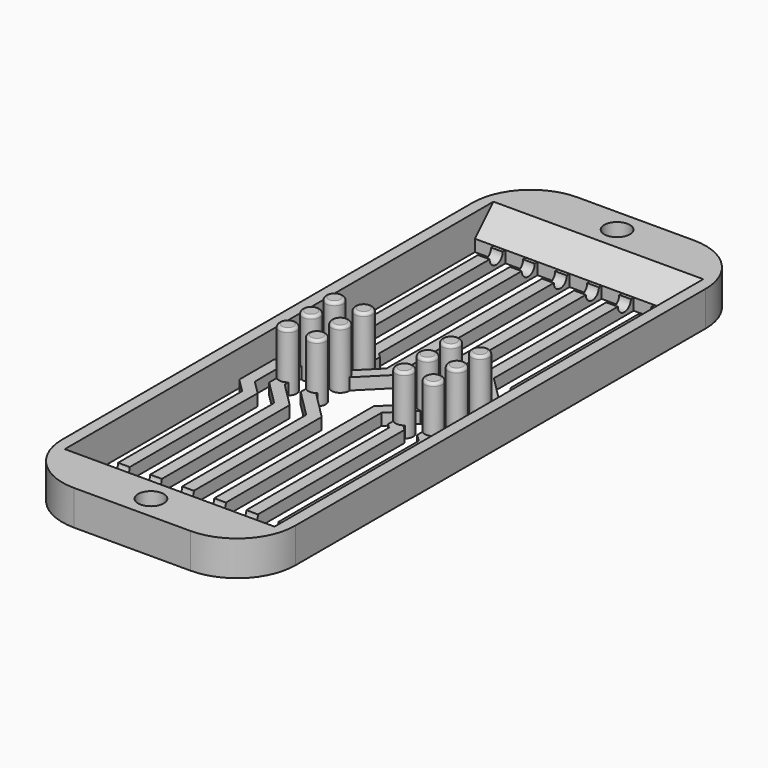
from build123d import *

# Parameters (mm, degrees)
CYLINDER_R              = 0.7
CYLINDER_DEPTH          = 16
CYLINDER_PITCH_ANGLE    = 90
CYLINDER001_R           = 0.7
CYLINDER001_DEPTH       = 16
CYLINDER001_PITCH_ANGLE = 90
PAD003_DEPTH            = 1
PAD_DEPTH               = 1
SKETCH001_R             = 0.75
PAD001_DEPTH            = 5
FILLET_R                = 0.25
SKETCH002_W             = 20
SKETCH002_H             = 54
SKETCH002_R             = 1.1
SKETCH002_W_2           = 18
SKETCH002_H_2           = 42
PAD002_DEPTH            = 3
FILLET001_R             = 5
CHAMFER_SIZE            = 1.99


with BuildPart() as zylinder:
    # Cylinder → Cylinder (new body)
    with BuildSketch(Plane.XY):
        Circle(CYLINDER_R)
    extrude(amount=CYLINDER_DEPTH)


with BuildPart() as zylinder_1:
    # Cylinder pitch: moved
    add(zylinder.part.rotate(Axis((0, 0, 0), (0, 1, 0)), CYLINDER_PITCH_ANGLE))


with BuildPart() as zylinder_2:
    # Cylinder placement: moved
    add(zylinder_1.part.moved(Location((2, 47, 1))))


with BuildPart() as fusion001:
    # Cylinder001 → Cylinder001 (new body)
    with BuildSketch(Plane.XY):
        Circle(CYLINDER001_R)
    extrude(amount=CYLINDER001_DEPTH)


with BuildPart() as fusion001_1:
    # Cylinder001 pitch: moved
    add(fusion001.part.rotate(Axis((0, 0, 0), (0, 1, 0)), CYLINDER001_PITCH_ANGLE))


with BuildPart() as fusion001_2:
    # Cylinder001 placement: moved
    add(fusion001_1.part.moved(Location((2, 7, 1))))

    # Fusion001: union Zylinder
    add(zylinder_2.part)


with BuildPart() as pin2:
    # Sketch003 → Pad003 (new body)
    with BuildSketch(Plane(origin=(20, 54, 0), x_dir=(-1, 0, 0), z_dir=(0, 0, 1))):
        Polygon((2.625001, 6), (2.625001, 21.000001), (1.425002, 22.2), (1.425002, 25.945946), (3.425366, 27.346616), (4.151055, 26.740327), (2.425002, 25.531732), (2.425002, 22.614216), (3.625001, 21.414216), (3.625001, 6), align=None)
        Polygon((5.375002, 6), (5.375002, 21.000005), (3.25, 23.125007), (3.25, 24.5), (4.25, 24.5), (4.25, 23.539221), (6.375002, 21.414217), (6.375002, 6), align=None)
        Polygon((8.125003, 6), (8.125003, 21.000004), (5.749999, 23.375009), (5.749999, 24.5), (6.749998, 24.5), (6.749998, 23.789246), (9.125004, 21.414218), (9.125004, 6), align=None)
        Polygon((10.875003, 6), (10.875003, 24.800032), (13.474746, 27.399769), (14.178822, 26.689644), (11.875002, 24.385819), (11.875002, 6), align=None)
        Polygon((16.375001, 6), (16.375001, 22.750033), (15.75, 23.375034), (15.75, 24.499993), (16.75, 24.499993), (16.75, 23.789248), (17.375001, 23.164247), (17.375001, 6), align=None)
        Polygon((13.625002, 6), (14.625002, 6), (14.625002, 23.414246), (14.250001, 23.789247), (14.250001, 24.499996), (13.25, 24.499996), (13.25, 23.375034), (13.625002, 23.000032), align=None)
    extrude(amount=PAD003_DEPTH)


with BuildPart() as cut:
    # Sketch → Pad (new body)
    with BuildSketch(Plane.XY):
        Polygon((2.625001, 6), (2.625001, 21.000001), (1.425002, 22.2), (1.425002, 25.945946), (3.425366, 27.346616), (4.151055, 26.740327), (2.425002, 25.531732), (2.425002, 22.614216), (3.625001, 21.414216), (3.625001, 6), align=None)
        Polygon((5.375002, 6), (5.375002, 21.000005), (3.25, 23.125007), (3.25, 24.5), (4.25, 24.5), (4.25, 23.539221), (6.375002, 21.414217), (6.375002, 6), align=None)
        Polygon((8.125003, 6), (8.125003, 21.000004), (5.749999, 23.375009), (5.749999, 24.5), (6.749998, 24.5), (6.749998, 23.789246), (9.125004, 21.414218), (9.125004, 6), align=None)
        Polygon((10.875003, 6), (10.875003, 24.800032), (13.474746, 27.399769), (14.178822, 26.689644), (11.875002, 24.385819), (11.875002, 6), align=None)
        Polygon((16.375001, 6), (16.375001, 22.750033), (15.75, 23.375034), (15.75, 24.499993), (16.75, 24.499993), (16.75, 23.789248), (17.375001, 23.164247), (17.375001, 6), align=None)
        Polygon((13.625002, 6), (14.625002, 6), (14.625002, 23.414246), (14.250001, 23.789247), (14.250001, 24.499996), (13.25, 24.499996), (13.25, 23.375034), (13.625002, 23.000032), align=None)
    extrude(amount=PAD_DEPTH)

    # Fusion: union PIN2
    add(pin2.part)

    # Cut: cut Fusion001
    add(fusion001_2.part, mode=Mode.SUBTRACT)


with BuildPart() as fillet_body:
    # Sketch001 → Pad001 (new body)
    with BuildSketch(Plane.XY):
        with Locations((3.75, 29.5)):
            Circle(SKETCH001_R)
        with Locations((3.75, 27)):
            Circle(SKETCH001_R)
        with Locations((3.75, 24.5)):
            Circle(SKETCH001_R)
        with Locations((6.25, 29.5)):
            Circle(SKETCH001_R)
        with Locations((6.25, 27)):
            Circle(SKETCH001_R)
        with Locations((6.25, 24.5)):
            Circle(SKETCH001_R)
        with Locations((13.75, 29.5)):
            Circle(SKETCH001_R)
        with Locations((13.75, 27)):
            Circle(SKETCH001_R)
        with Locations((13.75, 24.5)):
            Circle(SKETCH001_R)
        with Locations((16.25, 24.5)):
            Circle(SKETCH001_R)
        with Locations((16.25, 27)):
            Circle(SKETCH001_R)
        with Locations((16.25, 29.5)):
            Circle(SKETCH001_R)
    extrude(amount=PAD001_DEPTH)

    # Fillet
    fillet_edges = [fillet_body.edges().sort_by_distance(p)[0] for p in [
        (3, 24.5, 5),
        (3, 27, 5),
        (3, 29.5, 5),
        (5.5, 29.5, 5),
        (5.5, 27, 5),
        (5.5, 24.5, 5),
        (13, 24.5, 5),
        (15.5, 24.5, 5),
        (15.5, 27, 5),
        (13, 27, 5),
        (13, 29.5, 5),
        (15.5, 29.5, 5),
    ]]
    fillet(fillet_edges, radius=FILLET_R)


with BuildPart() as chamfer_body:
    # Sketch002 → Pad002 (new body)
    with BuildSketch(Plane.XY):
        with Locations((10, 27)):
            Rectangle(SKETCH002_W, SKETCH002_H)
        with Locations((10, 2)):
            Circle(SKETCH002_R, mode=Mode.SUBTRACT)
        with Locations((10, 52)):
            Circle(SKETCH002_R, mode=Mode.SUBTRACT)
        with Locations((10, 27)):
            Rectangle(SKETCH002_W_2, SKETCH002_H_2, mode=Mode.SUBTRACT)
    extrude(amount=PAD002_DEPTH)

    # Fusion002: union Cut, Fillet body
    add(cut.part)
    add(fillet_body.part)

    # Fillet001
    fillet001_edges = [chamfer_body.edges().sort_by_distance(p)[0] for p in [
        (0, 54, 1.5),
        (20, 54, 1.5),
        (20, 0, 1.5),
        (0, 0, 1.5),
    ]]
    fillet(fillet001_edges, radius=FILLET001_R)

    # Chamfer
    chamfer_edges = [chamfer_body.edges().sort_by_distance(p)[0] for p in [
        (10, 48, 3),
        (10, 6, 3),
    ]]
    chamfer(chamfer_edges, length=CHAMFER_SIZE)


solid = chamfer_body.part
